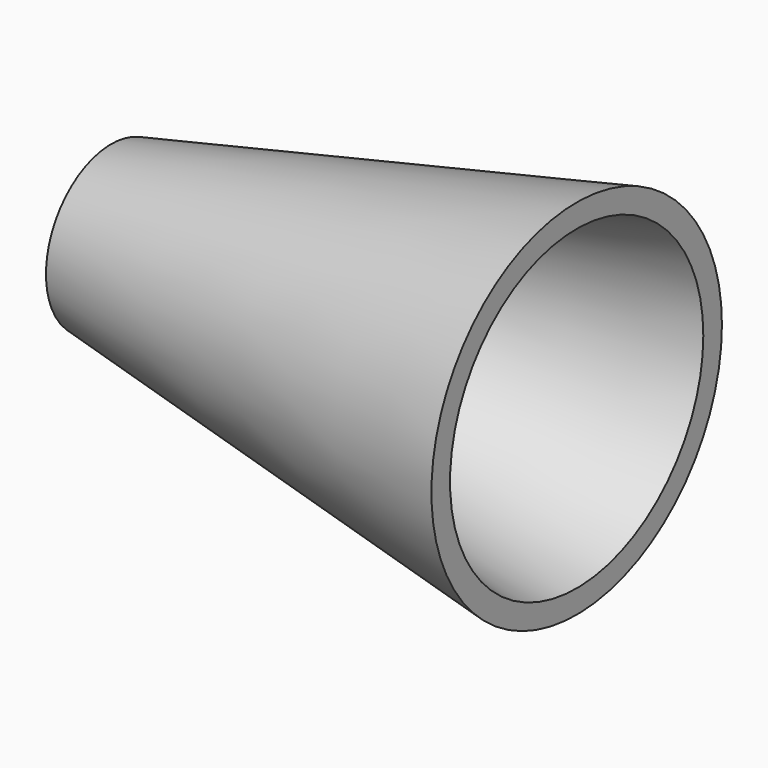
from build123d import *

# Parameters (mm, degrees)
F2_R = 7.8
F1_R = 3.5
F5_R = 6.8
F4_R = 2.5


with BuildPart() as f3:
    # F2 (on offset) → F3 section 0
    with BuildSketch(Plane.YZ.offset(20)):
        Circle(F2_R)
    # F1 (on Right) → F3 section 1
    with BuildSketch(Plane.YZ):
        Circle(F1_R)
    loft()

    # F5 (on face) → F6 section 0
    with BuildSketch(Plane.YZ.offset(20)):
        Circle(F5_R)
    # F4 (on face) → F6 section 1
    with BuildSketch(Plane(origin=(0, 0, 0), x_dir=(0, -1, 0), z_dir=(-1, 0, 0))):
        Circle(F4_R)
    loft(mode=Mode.SUBTRACT)


solid = f3.part
